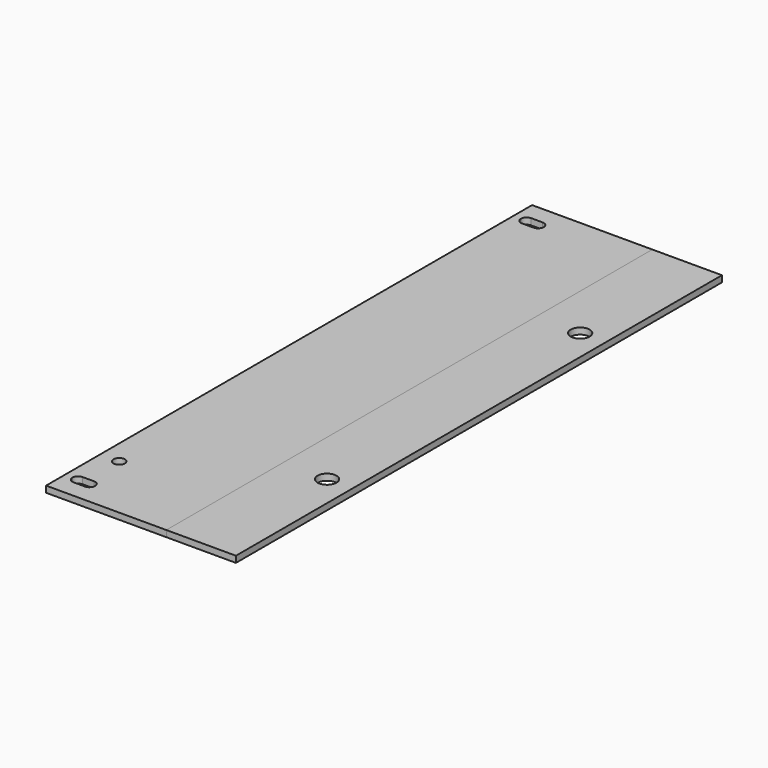
from build123d import *

# Parameters (mm, degrees)
F0_W     = 190
F0_H     = 960
F1_DEPTH = 10
F0_W_2   = 110
F2_DEPTH = 10
F3_R     = 9
F4_DEPTH = 10
F5_D     = 30


with BuildPart() as f1:
    # F0 (on Top) → F1 (new body)
    with BuildSketch(Plane.XY):
        Rectangle(F0_W, F0_H)
    extrude(amount=F1_DEPTH)

    # F3 (on face) → F4 (cut, through all)
    with BuildSketch(Plane.XY.offset(10)):
        with BuildLine():
            ThreePointArc((-47, -443), (-49.6360389693, -436.6360389693), (-56, -434))
            Line((-56, -434), (-74, -434))
            ThreePointArc((-74, -434), (-80.3639610307, -436.6360389693), (-83, -443))
            ThreePointArc((-83, -443), (-80.3639610307, -449.3639610307), (-74, -452))
            Line((-74, -452), (-56, -452))
            ThreePointArc((-56, -452), (-49.6360389693, -449.3639610307), (-47, -443))
        make_face()
        with Locations((-65, -373)):
            Circle(F3_R)
        with BuildLine():
            ThreePointArc((-47, 443), (-49.6360389693, 449.3639610307), (-56, 452))
            Line((-56, 452), (-74, 452))
            ThreePointArc((-74, 452), (-80.3639610307, 449.3639610307), (-83, 443))
            ThreePointArc((-83, 443), (-80.3639610307, 436.6360389693), (-74, 434))
            Line((-74, 434), (-56, 434))
            ThreePointArc((-56, 434), (-49.6360389693, 436.6360389693), (-47, 443))
        make_face()
    extrude(amount=-F4_DEPTH, mode=Mode.SUBTRACT)


with BuildPart() as f2:
    # F0 (on Top) → F2 (new body)
    with BuildSketch(Plane.XY):
        with Locations((150, 0)):
            Rectangle(F0_W_2, F0_H)
    extrude(amount=F2_DEPTH)

    # F5 (through all)
    with Locations(Plane.XY.offset(10)):
        with Locations((165, 250), (165, -250)):
            Hole(F5_D / 2)


solid = Compound([f1.part, f2.part])
